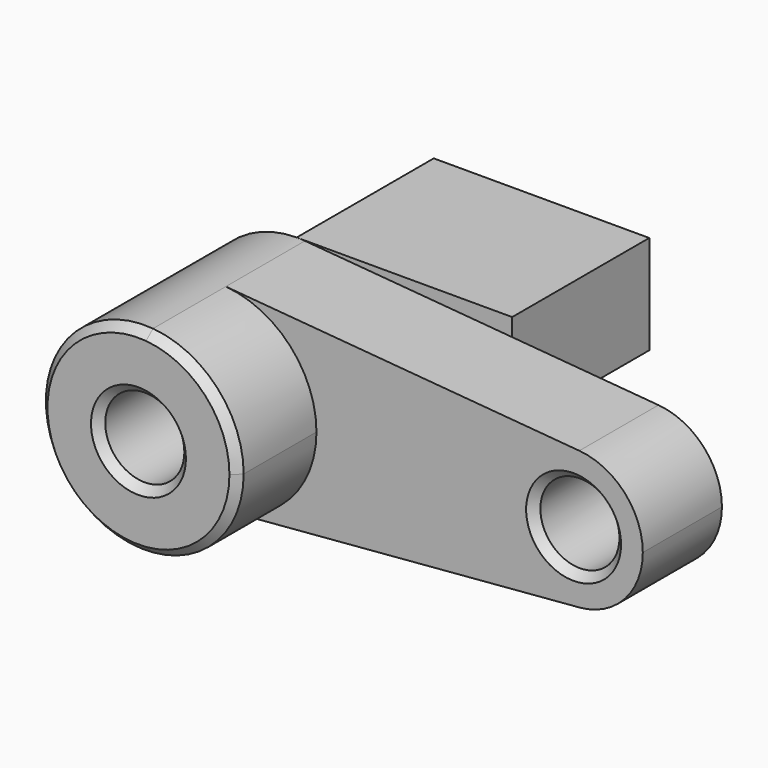
from build123d import *

# Parameters (mm, degrees)
F0_R     = 10
F1_DEPTH = 25
F2_DEPTH = 50
F3_SIZE  = 2
F4_W     = 54.479554
F4_H     = 43.313496
F5_DEPTH = 25


with BuildPart() as f1:
    # F0 (on Front) → F1 (new body)
    with BuildSketch(Plane.XZ):
        with BuildLine():
            ThreePointArc((2.083333, -24.913043), (18.399502, -16.92508), (25, 0))
            ThreePointArc((25, 0), (18.399502, 16.92508), (2.083333, 24.913043))
            ThreePointArc((2.083333, 24.913043), (-25, 0), (2.083333, -24.913043))
        make_face()
        Circle(F0_R, mode=Mode.SUBTRACT)
        with BuildLine():
            ThreePointArc((2.083333, 24.913043), (18.399502, 16.92508), (25, 0))
            ThreePointArc((25, 0), (18.399502, -16.92508), (2.083333, -24.913043))
            Line((2.083333, -24.913043), (91.458333, -17.43913))
            ThreePointArc((91.458333, -17.43913), (72.5, 0), (91.458333, 17.43913))
            Line((91.458333, 17.43913), (2.083333, 24.913043))
        make_face()
        with BuildLine():
            ThreePointArc((107.5, 0), (102.879651, 11.847556), (91.458333, 17.43913))
            ThreePointArc((91.458333, 17.43913), (72.5, 0), (91.458333, -17.43913))
            ThreePointArc((91.458333, -17.43913), (102.879651, -11.847556), (107.5, 0))
        make_face()
        with Locations((90, 0)):
            Circle(F0_R, mode=Mode.SUBTRACT)
    extrude(amount=F1_DEPTH)

    # F0 (on Front) → F2 (join)
    with BuildSketch(Plane.XZ):
        with BuildLine():
            ThreePointArc((2.083333, -24.913043), (18.399502, -16.92508), (25, 0))
            ThreePointArc((25, 0), (18.399502, 16.92508), (2.083333, 24.913043))
            ThreePointArc((2.083333, 24.913043), (-25, 0), (2.083333, -24.913043))
        make_face()
        Circle(F0_R, mode=Mode.SUBTRACT)
    extrude(amount=F2_DEPTH)

    # F3
    f3_edges = [f1.edges().sort_by_distance(p)[0] for p in [
        (-2.083333, -50, 24.913043),
        (-10, -50, 0),
        (80, -25, 0),
    ]]
    chamfer(f3_edges, length=F3_SIZE)

    # F4 (on Top) → F5 (join)
    with BuildSketch(Plane.XY):
        with Locations((27.239777, 21.656748)):
            Rectangle(F4_W, F4_H)
    extrude(amount=F5_DEPTH)


solid = f1.part
